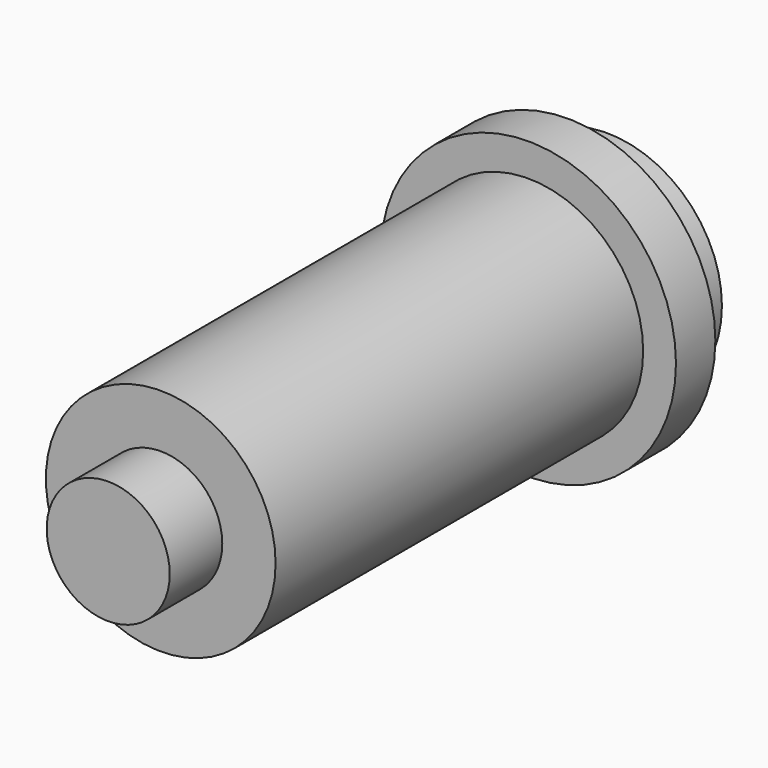
from build123d import *

# Parameters (mm, degrees)
F0_R     = 7
F0_R_2   = 3.75
F1_DEPTH = 31
F0_R_3   = 9
F2_DEPTH = 3
F3_DEPTH = 3
F4_DEPTH = 3
F5_DEPTH = 35


with BuildPart() as f1:
    # F0 (on Front) → F1 (new body)
    with BuildSketch(Plane.XZ):
        Circle(F0_R)
        Circle(F0_R_2, mode=Mode.SUBTRACT)
    extrude(amount=F1_DEPTH)

    # F0 (on Front) → F2 (join)
    with BuildSketch(Plane.XZ):
        Circle(F0_R_3)
        Circle(F0_R, mode=Mode.SUBTRACT)
    extrude(amount=F2_DEPTH)

    # F0 (on Front) → F3 (join)
    with BuildSketch(Plane.XZ):
        Circle(F0_R)
        Circle(F0_R_2, mode=Mode.SUBTRACT)
    extrude(amount=-F3_DEPTH)

    # F0 (on Front) → F4 (join)
    with BuildSketch(Plane.XZ):
        Circle(F0_R_2)
    extrude(amount=-F4_DEPTH)

    # F0 (on Front) → F5 (join)
    with BuildSketch(Plane.XZ):
        Circle(F0_R_2)
    extrude(amount=F5_DEPTH)


solid = f1.part
